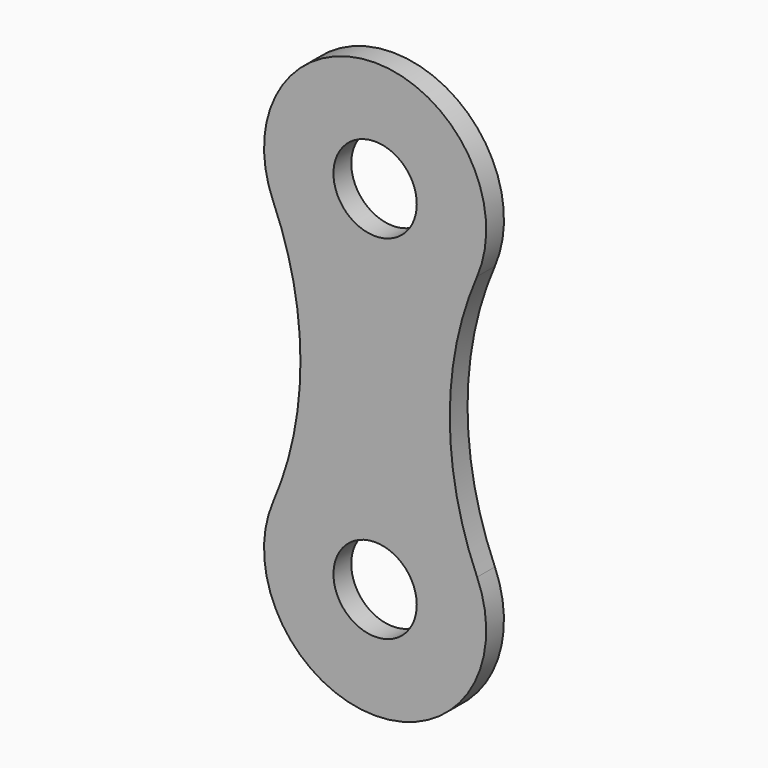
from build123d import *

# Parameters (mm, degrees)
F0_R     = 38.1
F1_DEPTH = 10.16


with BuildPart() as f1:
    # F0 (on Front) → F1 (new body, symmetric)
    with BuildSketch(Plane.XZ):
        with BuildLine():
            ThreePointArc((93.28624, -121.037828), (68.286859, 0), (93.28624, 121.037828))
            ThreePointArc((93.28624, 121.037828), (0, 262.89), (-93.28624, 121.037828))
            ThreePointArc((-93.28624, 121.037828), (-68.286859, 0), (-93.28624, -121.037828))
            ThreePointArc((-93.28624, -121.037828), (0, -262.89), (93.28624, -121.037828))
        make_face()
        with Locations((0, -161.29)):
            Circle(F0_R, mode=Mode.SUBTRACT)
        with Locations((0, 161.29)):
            Circle(F0_R, mode=Mode.SUBTRACT)
    extrude(amount=F1_DEPTH, both=True)


solid = f1.part
